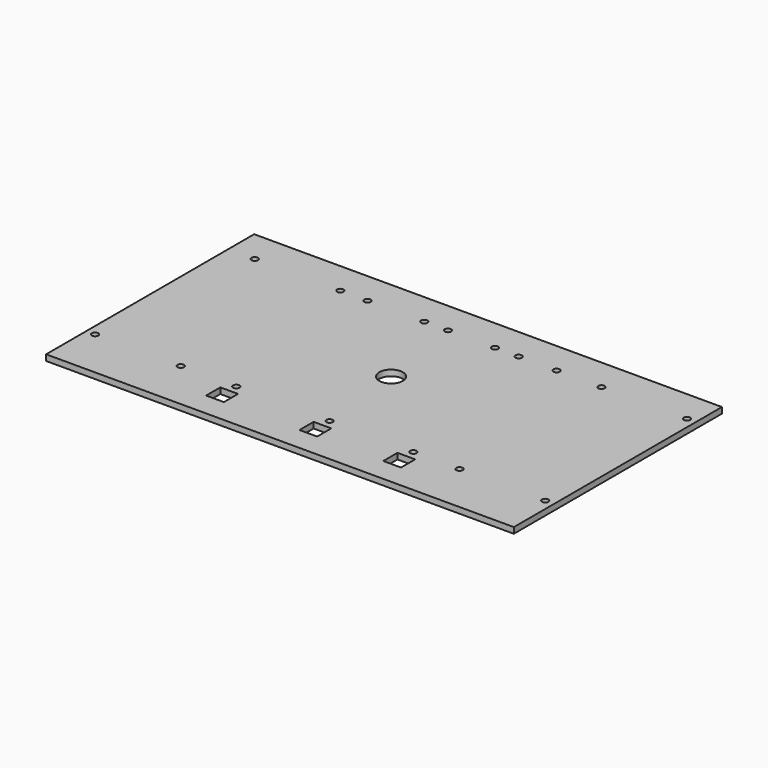
from build123d import *

# Parameters (mm, degrees)
F0_W     = 251.524948
F0_H     = 139.850774
F0_R     = 1.7272
F0_W_2   = 9.525
F0_H_2   = 9.525
F0_R_2   = 6.35
F1_DEPTH = 3.175


with BuildPart() as f1:
    # F0 (on Top) → F1 (new body)
    with BuildSketch(Plane.XY):
        with Locations((125.762474, -69.925387)):
            Rectangle(F0_W, F0_H)
        with Locations((4.7625, -112.863274)):
            Circle(F0_R, mode=Mode.SUBTRACT)
        with Locations((50.8, -112.863274)):
            Circle(F0_R, mode=Mode.SUBTRACT)
        Polygon((85.434995, -117.625774), (85.434995, -127.150774), (75.909995, -127.150774), (75.909995, -117.625774), align=None, mode=Mode.SUBTRACT)
        with Locations((80.672495, -112.863274)):
            Circle(F0_R, mode=Mode.SUBTRACT)
        with Locations((130.838715, -122.388274)):
            Rectangle(F0_W_2, F0_H_2, mode=Mode.SUBTRACT)
        with Locations((175.928693, -122.388274)):
            Rectangle(F0_W_2, F0_H_2, mode=Mode.SUBTRACT)
        with Locations((130.838715, -112.863274)):
            Circle(F0_R, mode=Mode.SUBTRACT)
        with Locations((175.928693, -112.863274)):
            Circle(F0_R, mode=Mode.SUBTRACT)
        with Locations((200.724948, -112.863274)):
            Circle(F0_R, mode=Mode.SUBTRACT)
        with Locations((246.762448, -112.863274)):
            Circle(F0_R, mode=Mode.SUBTRACT)
        with Locations((14.2875, -17.4625)):
            Circle(F0_R, mode=Mode.SUBTRACT)
        with Locations((60.325, -17.4625)):
            Circle(F0_R, mode=Mode.SUBTRACT)
        with Locations((74.93, -17.4625)):
            Circle(F0_R, mode=Mode.SUBTRACT)
        with Locations((105.464991, -17.4625)):
            Circle(F0_R, mode=Mode.SUBTRACT)
        with Locations((118.164991, -17.4625)):
            Circle(F0_R, mode=Mode.SUBTRACT)
        with Locations((125.762474, -65.162887)):
            Circle(F0_R_2, mode=Mode.SUBTRACT)
        with Locations((143.512438, -17.4625)):
            Circle(F0_R, mode=Mode.SUBTRACT)
        with Locations((156.212438, -17.4625)):
            Circle(F0_R, mode=Mode.SUBTRACT)
        with Locations((176.594948, -17.4625)):
            Circle(F0_R, mode=Mode.SUBTRACT)
        with Locations((200.724948, -17.4625)):
            Circle(F0_R, mode=Mode.SUBTRACT)
        with Locations((246.762448, -17.4625)):
            Circle(F0_R, mode=Mode.SUBTRACT)
    extrude(amount=F1_DEPTH)


solid = f1.part
